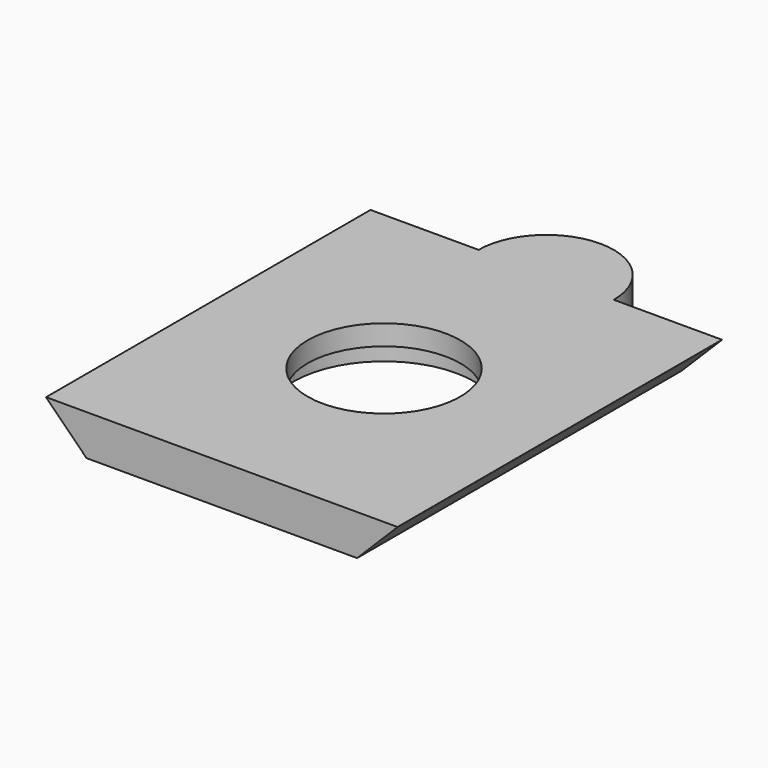
from build123d import *

# Parameters (mm, degrees)
PAD028_DEPTH            = 3
POCKET013_DEPTH         = 1.5
CHAMFER_SIZE            = 2.99
SKETCH061_R             = 5.65
POCKET017_DEPTH         = 3.001
BODY019_PLACEMENT_ANGLE = 180


with BuildPart() as part:
    # Sketch057 → Pad028 (new body)
    with BuildSketch(Plane.XY):
        with BuildLine():
            Line((-13, 15), (-5, 15))
            ThreePointArc((5, 15), (0, 20), (-5, 15))
            Line((5, 15), (13, 15))
            Line((13, 15), (13, -15))
            Line((13, -15), (-13, -15))
            Line((-13, -15), (-13, 15))
        make_face()
    extrude(amount=-PAD028_DEPTH)

    # Sketch056 → Pocket013 (cut)
    with BuildSketch(Plane.XY):
        with BuildLine():
            ThreePointArc((6.65, 0), (0, 6.65), (-6.65, 0))
            Line((-6.65, -5.15), (-6.65, 0))
            Line((6.65, -5.15), (-6.65, -5.15))
            Line((6.65, 0), (6.65, -5.15))
        make_face()
    extrude(amount=-POCKET013_DEPTH, mode=Mode.SUBTRACT)

    # Chamfer
    chamfer_edges = [part.edges().sort_by_distance(p)[0] for p in [
        (-13, 0, 0),
        (13, 0, 0),
    ]]
    chamfer(chamfer_edges, length=CHAMFER_SIZE)

    # Sketch061 → Pocket017 (cut, through all)
    with BuildSketch(Plane.XY):
        Circle(SKETCH061_R)
    extrude(amount=-POCKET017_DEPTH, mode=Mode.SUBTRACT)


with BuildPart() as part_1:
    # Body019 placement: moved
    add(part.part.moved(Location((0, 0, 0.4))).rotate(Axis((0, 0, 0.4), (0, 1, 0)), BODY019_PLACEMENT_ANGLE))


solid = part_1.part
